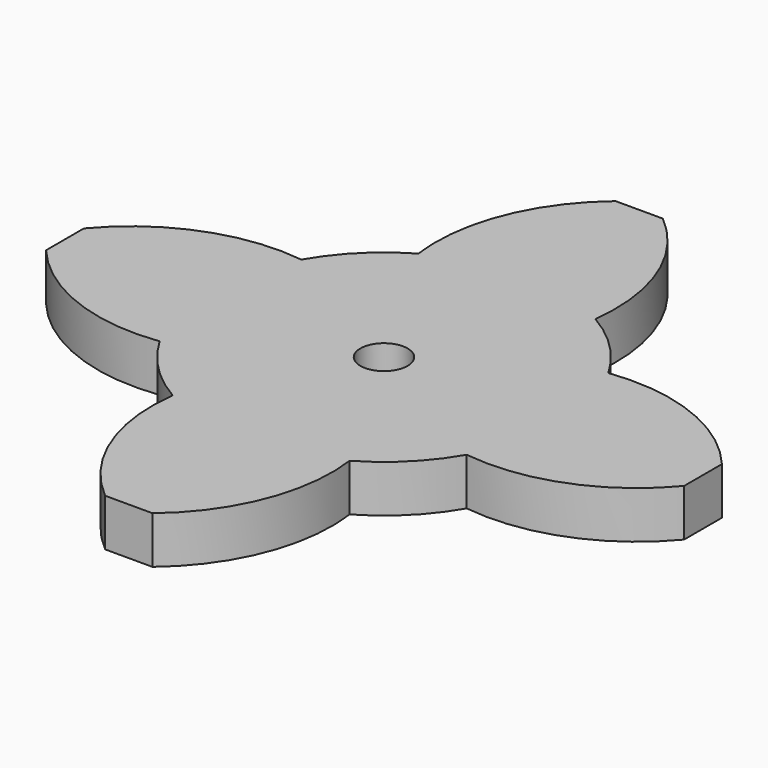
from build123d import *

# Parameters (mm, degrees)
F1_DEPTH = 2
F2_R     = 1
F3_DEPTH = 2.001


with BuildPart() as f1:
    # F0 (on Top) → F1 (new body)
    with BuildSketch(Plane.XY):
        with BuildLine():
            ThreePointArc((6.49769, -3.745668), (7.24509, -1.938727), (7.5, 0))
            ThreePointArc((7.5, 0), (7.24509, 1.938727), (6.49769, 3.745668))
            ThreePointArc((6.49769, 3.745668), (5.303301, 5.303301), (3.745668, 6.49769))
            ThreePointArc((3.745668, 6.49769), (1.938727, 7.24509), (0, 7.5))
            ThreePointArc((0, 7.5), (-1.938727, 7.24509), (-3.745668, 6.49769))
            ThreePointArc((-3.745668, 6.49769), (-5.303301, 5.303301), (-6.49769, 3.745668))
            ThreePointArc((-6.49769, 3.745668), (-7.5, 0), (-6.49769, -3.745668))
            ThreePointArc((-6.49769, -3.745668), (-5.303301, -5.303301), (-3.745668, -6.49769))
            ThreePointArc((-3.745668, -6.49769), (0, -7.5), (3.745668, -6.49769))
            ThreePointArc((3.745668, -6.49769), (5.303301, -5.303301), (6.49769, -3.745668))
        make_face()
        with BuildLine():
            ThreePointArc((6.49769, 3.745668), (7.24509, 1.938727), (7.5, 0))
            ThreePointArc((7.5, 0), (7.24509, -1.938727), (6.49769, -3.745668))
            ThreePointArc((6.49769, -3.745668), (10.351122, -3.271252), (13.5, -1))
            Line((13.5, -1), (13.5, 0))
            Line((13.5, 0), (13.5, 1))
            ThreePointArc((13.5, 1), (10.351122, 3.271252), (6.49769, 3.745668))
        make_face()
        with BuildLine():
            ThreePointArc((0, 7.5), (1.938727, 7.24509), (3.745668, 6.49769))
            ThreePointArc((3.745668, 6.49769), (3.271252, 10.351122), (1, 13.5))
            Line((1, 13.5), (0, 13.5))
            Line((0, 13.5), (0, 7.5))
        make_face()
        with BuildLine():
            ThreePointArc((1, -13.5), (3.271252, -10.351122), (3.745668, -6.49769))
            ThreePointArc((3.745668, -6.49769), (0, -7.5), (-3.745668, -6.49769))
            ThreePointArc((-3.745668, -6.49769), (-3.271252, -10.351122), (-1, -13.5))
            Line((-1, -13.5), (0, -13.5))
            Line((0, -13.5), (1, -13.5))
        make_face()
        with BuildLine():
            ThreePointArc((-3.745668, 6.49769), (-1.938727, 7.24509), (0, 7.5))
            Line((0, 7.5), (0, 13.5))
            Line((0, 13.5), (-1, 13.5))
            ThreePointArc((-1, 13.5), (-3.271252, 10.351122), (-3.745668, 6.49769))
        make_face()
        with BuildLine():
            ThreePointArc((-13.5, -1), (-10.351122, -3.271252), (-6.49769, -3.745668))
            ThreePointArc((-6.49769, -3.745668), (-7.5, 0), (-6.49769, 3.745668))
            ThreePointArc((-6.49769, 3.745668), (-10.351122, 3.271252), (-13.5, 1))
            Line((-13.5, 1), (-13.5, 0))
            Line((-13.5, 0), (-13.5, -1))
        make_face()
    extrude(amount=F1_DEPTH)

    # F2 (on face) → F3 (cut, through all)
    with BuildSketch(Plane.XY.offset(2)):
        Circle(F2_R)
    extrude(amount=-F3_DEPTH, mode=Mode.SUBTRACT)


solid = f1.part
